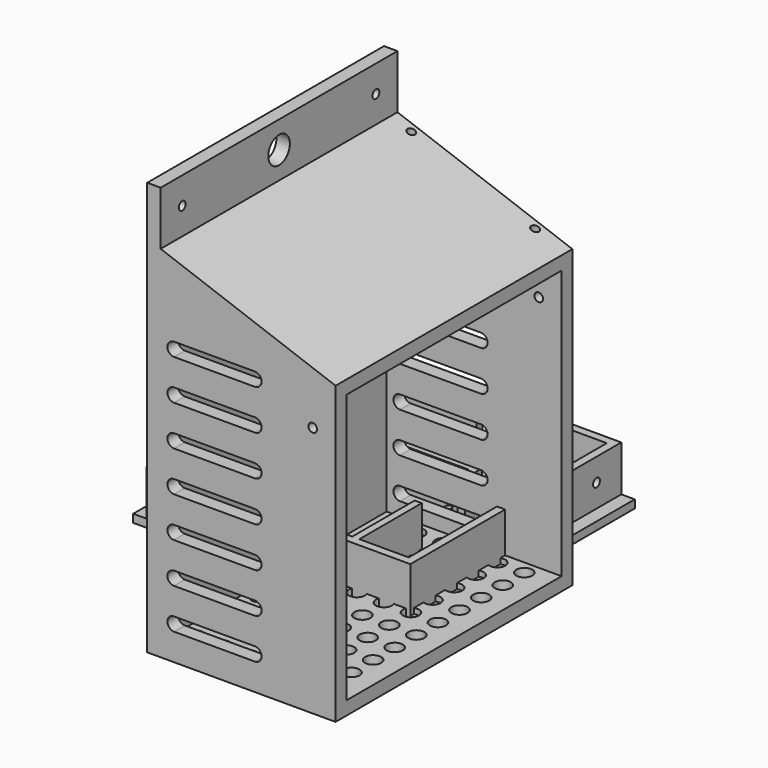
from build123d import *

# Parameters (mm, degrees)
SKETCH_W        = 98
SKETCH_H        = 98
PAD_DEPTH       = 20
SKETCH001_W     = 42
SKETCH001_H     = 67
POCKET_DEPTH    = 17
SKETCH002_W     = 26
SKETCH002_H     = 54
POCKET001_DEPTH = 17
POCKET002_DEPTH = 17
SKETCH004_W     = 4
SKETCH004_H     = 3
POCKET003_DEPTH = 17
SKETCH005_W     = 2.631232
SKETCH005_H     = 20
POCKET004_DEPTH = 17
SKETCH006_R     = 1.15
PAD001_DEPTH    = 5
SKETCH007_R     = 1.25
PAD002_DEPTH    = 5
SKETCH008_W     = 98
SKETCH008_H     = 3
PAD003_DEPTH    = 5
SKETCH009_W     = 98
SKETCH009_H     = 3
PAD004_DEPTH    = 5
SKETCH010_R     = 1.6
POCKET005_DEPTH = 3
SKETCH011_R     = 1.6
POCKET006_DEPTH = 3
SKETCH016_W     = 5
SKETCH016_H     = 8
POCKET010_DEPTH = 20.001
CHAMFER_SIZE    = 1
SKETCH021_R     = 2.5
POCKET014_DEPTH = 2
PAD005_DEPTH    = 110
SKETCH013_W     = 100
SKETCH013_H     = 100
POCKET007_DEPTH = 65
SKETCH014_R     = 5
SKETCH014_R_2   = 1.6
POCKET008_DEPTH = 5
SKETCH015_R     = 1.5
POCKET009_DEPTH = 10
SKETCH017_R     = 3
POCKET011_DEPTH = 5
SKETCH019_R     = 1.6
POCKET012_DEPTH = 110.001
POCKET013_DEPTH = 110.001


with BuildPart() as deckel:
    # Sketch → Pad (new body)
    with BuildSketch(Plane.XY):
        Rectangle(SKETCH_W, SKETCH_H)
    extrude(amount=PAD_DEPTH)

    # Sketch001 (on Face6 of Pad) → Pocket (cut)
    with BuildSketch(Plane.XY.offset(20)):
        with Locations((-25, -12.5)):
            Rectangle(SKETCH001_W, SKETCH001_H)
    extrude(amount=-POCKET_DEPTH, mode=Mode.SUBTRACT)

    # Sketch002 (on Face5 of Pocket) → Pocket001 (cut)
    with BuildSketch(Plane.XY.offset(20)):
        with Locations((12, -19)):
            Rectangle(SKETCH002_W, SKETCH002_H)
    extrude(amount=-POCKET001_DEPTH, mode=Mode.SUBTRACT)

    # Sketch003 (on Face5 of Pocket001) → Pocket002 (cut)
    with BuildSketch(Plane.XY.offset(20)):
        Polygon((-46, 46), (-46, 24), (-1, 24), (-1, 11), (27.631232, 11), (27.631232, -46), (46, -46), (46, 46), align=None)
    extrude(amount=-POCKET002_DEPTH, mode=Mode.SUBTRACT)

    # Sketch004 (on Face5 of Pocket002) → Pocket003 (cut)
    with BuildSketch(Plane.XY.offset(20)):
        with Locations((-6, 22.5)):
            Rectangle(SKETCH004_W, SKETCH004_H)
    extrude(amount=-POCKET003_DEPTH, mode=Mode.SUBTRACT)

    # Sketch005 (on Face5 of Pocket003) → Pocket004 (cut)
    with BuildSketch(Plane.XY.offset(20)):
        with Locations((26.315616, -7)):
            Rectangle(SKETCH005_W, SKETCH005_H)
    extrude(amount=-POCKET004_DEPTH, mode=Mode.SUBTRACT)

    # Sketch006 (on Face30 of Pocket004) → Pad001 (join)
    with BuildSketch(Plane.XY.offset(3)):
        with Locations((3.11, 3.86)):
            Circle(SKETCH006_R)
        with Locations((20.89, 3.86)):
            Circle(SKETCH006_R)
        with Locations((3.11, -41.86)):
            Circle(SKETCH006_R)
        with Locations((20.89, -41.86)):
            Circle(SKETCH006_R)
    extrude(amount=PAD001_DEPTH)

    # Sketch007 (on Face32 of Pad001) → Pad002 (join)
    with BuildSketch(Plane.XY.offset(3)):
        with Locations((15.631232, 36)):
            Circle(SKETCH007_R)
        with Locations((23.631232, 36)):
            Circle(SKETCH007_R)
    extrude(amount=PAD002_DEPTH)

    # Sketch008 (on Face2 of Pad002) → Pad003 (join)
    with BuildSketch(Plane(origin=(-49, 0, 0), x_dir=(0, -1, 0), z_dir=(-1, 0, 0))):
        with Locations((0, 1.5)):
            Rectangle(SKETCH008_W, SKETCH008_H)
    extrude(amount=PAD003_DEPTH)

    # Sketch009 (on Face4 of Pad003) → Pad004 (join)
    with BuildSketch(Plane.YZ.offset(49)):
        with Locations((0, 1.5)):
            Rectangle(SKETCH009_W, SKETCH009_H)
    extrude(amount=PAD004_DEPTH)

    # Sketch010 (on Face29 of Pad004) → Pocket005 (cut)
    with BuildSketch(Plane.YZ.offset(-46)):
        with Locations((37.5, 11.5)):
            Circle(SKETCH010_R)
    extrude(amount=-POCKET005_DEPTH, mode=Mode.SUBTRACT)

    # Sketch011 (on Face32 of Pocket005) → Pocket006 (cut)
    with BuildSketch(Plane(origin=(46, 0, 0), x_dir=(0, -1, 0), z_dir=(-1, 0, 0))):
        with Locations((-37.5, 11.5)):
            Circle(SKETCH011_R)
    extrude(amount=-POCKET006_DEPTH, mode=Mode.SUBTRACT)

    # Sketch016 (on Face7 of Pocket006) → Pocket010 (cut, through all)
    with BuildSketch(Plane.XY.offset(20)):
        with Locations((0, 45)):
            Rectangle(SKETCH016_W, SKETCH016_H)
    extrude(amount=-POCKET010_DEPTH, mode=Mode.SUBTRACT)

    # Chamfer
    chamfer_edges = [deckel.edges().sort_by_distance(p)[0] for p in [
        (14.381232, 36, 3),
        (22.381232, 36, 3),
        (1.96, 3.86, 3),
        (19.74, 3.86, 3),
        (1.96, -41.86, 3),
        (19.74, -41.86, 3),
    ]]
    chamfer(chamfer_edges, length=CHAMFER_SIZE)

    # Sketch021 (on Face1 of Chamfer) → Pocket014 (cut)
    with BuildSketch(Plane.XY.offset(3)):
        with Locations((19.631232, 31)):
            Circle(SKETCH021_R)
    extrude(amount=-POCKET014_DEPTH, mode=Mode.SUBTRACT)


with BuildPart() as obj1:
    # Sketch012 → Pad005 (new body)
    with BuildSketch(Plane.XZ):
        Polygon((0, 0), (0, 153.6580652273), (5, 153.6580652273), (5, 133.6580652273), (70, 110), (70, 0), align=None)
    extrude(amount=PAD005_DEPTH)

    # Sketch013 (on Face5 of Pad005) → Pocket007 (cut)
    with BuildSketch(Plane(origin=(70, 0, 0), x_dir=(0, 0, 1), z_dir=(1, 0, 0))):
        with Locations((55, 55)):
            Rectangle(SKETCH013_W, SKETCH013_H)
    extrude(amount=-POCKET007_DEPTH, mode=Mode.SUBTRACT)

    # Sketch014 (on Face7 of Pocket007) → Pocket008 (cut)
    with BuildSketch(Plane(origin=(5, 0, 0), x_dir=(0, 0, 1), z_dir=(1, 0, 0))):
        with Locations((143.6580652273, 55)):
            Circle(SKETCH014_R)
        with Locations((143.6580652273, 100)):
            Circle(SKETCH014_R_2)
        with Locations((143.6580652273, 10)):
            Circle(SKETCH014_R_2)
    extrude(amount=-POCKET008_DEPTH, mode=Mode.SUBTRACT)

    # Sketch015 (on Face11 of Pocket008) → Pocket009 (cut)
    with BuildSketch(Plane(origin=(43.5417630236, 0, 119.6300107106), x_dir=(-0.9396926208, 0, 0.3420201433), z_dir=(0.3420201433, 0, 0.9396926208))):
        with Locations((-15.9847124783, 3)):
            Circle(SKETCH015_R)
        with Locations((33.0152875217, 3)):
            Circle(SKETCH015_R)
    extrude(amount=-POCKET009_DEPTH, mode=Mode.SUBTRACT)

    # Sketch017 (on Face2 of Pocket009) → Pocket011 (cut)
    with BuildSketch(Plane(origin=(0, 0, 0), x_dir=(1, 0, 0), z_dir=(0, 0, -1))):
        with Locations((9.976582, 100.330579)):
            Circle(SKETCH017_R)
        with Locations((20.013313, 100.333181)):
            Circle(SKETCH017_R)
        with Locations((30.050044, 100.335783)):
            Circle(SKETCH017_R)
        with Locations((40.086775, 100.338385)):
            Circle(SKETCH017_R)
        with Locations((50.123506, 100.340987)):
            Circle(SKETCH017_R)
        with Locations((60.160237, 100.343589)):
            Circle(SKETCH017_R)
        with Locations((9.979184, 90.293848)):
            Circle(SKETCH017_R)
        with Locations((20.015915, 90.29645)):
            Circle(SKETCH017_R)
        with Locations((30.052646, 90.299052)):
            Circle(SKETCH017_R)
        with Locations((40.089377, 90.301654)):
            Circle(SKETCH017_R)
        with Locations((50.126108, 90.304256)):
            Circle(SKETCH017_R)
        with Locations((60.162839, 90.306858)):
            Circle(SKETCH017_R)
        with Locations((9.981786, 80.257117)):
            Circle(SKETCH017_R)
        with Locations((20.018517, 80.259719)):
            Circle(SKETCH017_R)
        with Locations((30.055248, 80.262321)):
            Circle(SKETCH017_R)
        with Locations((40.091979, 80.264923)):
            Circle(SKETCH017_R)
        with Locations((50.12871, 80.267525)):
            Circle(SKETCH017_R)
        with Locations((60.165441, 80.270127)):
            Circle(SKETCH017_R)
        with Locations((9.984388, 70.220386)):
            Circle(SKETCH017_R)
        with Locations((20.021119, 70.222988)):
            Circle(SKETCH017_R)
        with Locations((30.05785, 70.22559)):
            Circle(SKETCH017_R)
        with Locations((40.094581, 70.228192)):
            Circle(SKETCH017_R)
        with Locations((50.131312, 70.230794)):
            Circle(SKETCH017_R)
        with Locations((60.168043, 70.233396)):
            Circle(SKETCH017_R)
        with Locations((9.98699, 60.183655)):
            Circle(SKETCH017_R)
        with Locations((20.023721, 60.186257)):
            Circle(SKETCH017_R)
        with Locations((30.060452, 60.188859)):
            Circle(SKETCH017_R)
        with Locations((40.097183, 60.191461)):
            Circle(SKETCH017_R)
        with Locations((50.133914, 60.194063)):
            Circle(SKETCH017_R)
        with Locations((60.170645, 60.196665)):
            Circle(SKETCH017_R)
        with Locations((9.989592, 50.146924)):
            Circle(SKETCH017_R)
        with Locations((20.026323, 50.149526)):
            Circle(SKETCH017_R)
        with Locations((30.063054, 50.152128)):
            Circle(SKETCH017_R)
        with Locations((40.099785, 50.15473)):
            Circle(SKETCH017_R)
        with Locations((50.136516, 50.157332)):
            Circle(SKETCH017_R)
        with Locations((60.173247, 50.159934)):
            Circle(SKETCH017_R)
        with Locations((9.992194, 40.110193)):
            Circle(SKETCH017_R)
        with Locations((20.028925, 40.112795)):
            Circle(SKETCH017_R)
        with Locations((30.065656, 40.115397)):
            Circle(SKETCH017_R)
        with Locations((40.102387, 40.117999)):
            Circle(SKETCH017_R)
        with Locations((50.139118, 40.120601)):
            Circle(SKETCH017_R)
        with Locations((60.175849, 40.123203)):
            Circle(SKETCH017_R)
        with Locations((9.994796, 30.073462)):
            Circle(SKETCH017_R)
        with Locations((20.031527, 30.076064)):
            Circle(SKETCH017_R)
        with Locations((30.068258, 30.078666)):
            Circle(SKETCH017_R)
        with Locations((40.104989, 30.081268)):
            Circle(SKETCH017_R)
        with Locations((50.14172, 30.08387)):
            Circle(SKETCH017_R)
        with Locations((60.178451, 30.086472)):
            Circle(SKETCH017_R)
        with Locations((9.997398, 20.036731)):
            Circle(SKETCH017_R)
        with Locations((20.034129, 20.039333)):
            Circle(SKETCH017_R)
        with Locations((30.07086, 20.041935)):
            Circle(SKETCH017_R)
        with Locations((40.107591, 20.044537)):
            Circle(SKETCH017_R)
        with Locations((50.144322, 20.047139)):
            Circle(SKETCH017_R)
        with Locations((60.181053, 20.049741)):
            Circle(SKETCH017_R)
        with Locations((10, 10)):
            Circle(SKETCH017_R)
        with Locations((20.036731, 10.002602)):
            Circle(SKETCH017_R)
        with Locations((30.073462, 10.005204)):
            Circle(SKETCH017_R)
        with Locations((40.110193, 10.007806)):
            Circle(SKETCH017_R)
        with Locations((50.146924, 10.010408)):
            Circle(SKETCH017_R)
        with Locations((60.183655, 10.01301)):
            Circle(SKETCH017_R)
    extrude(amount=-POCKET011_DEPTH, mode=Mode.SUBTRACT)

    # Sketch019 (on Face4 of Pocket011) → Pocket012 (cut, through all)
    with BuildSketch(Plane.XZ.offset(110)):
        with Locations((61.5, 93.5)):
            Circle(SKETCH019_R)
    extrude(amount=-POCKET012_DEPTH, mode=Mode.SUBTRACT)

    # Sketch020 (on Face4 of Pocket012) → Pocket013 (cut, through all)
    with BuildSketch(Plane.XZ.offset(110)):
        with BuildLine():
            ThreePointArc((10, 15), (7.5, 12.5), (10, 10))
            Line((10, 10), (40, 10))
            ThreePointArc((40, 10), (42.5, 12.5), (40, 15))
            Line((10, 15), (40, 15))
        make_face()
        with BuildLine():
            ThreePointArc((10, 29.9843728085), (7.5, 27.4843728085), (10, 24.9843728085))
            Line((10, 24.9843728085), (40, 24.9843728085))
            ThreePointArc((40, 24.9843728085), (42.5, 27.4843728085), (40, 29.9843728085))
            Line((10, 29.9843728085), (40, 29.9843728085))
        make_face()
        with BuildLine():
            ThreePointArc((10, 44.968745617), (7.5, 42.468745617), (10, 39.968745617))
            Line((10, 39.968745617), (40, 39.968745617))
            ThreePointArc((40, 39.968745617), (42.5, 42.468745617), (40, 44.968745617))
            Line((10, 44.968745617), (40, 44.968745617))
        make_face()
        with BuildLine():
            ThreePointArc((10, 59.9531184255), (7.5, 57.4531184255), (10, 54.9531184255))
            Line((10, 54.9531184255), (40, 54.9531184255))
            ThreePointArc((40, 54.9531184255), (42.5, 57.4531184255), (40, 59.9531184255))
            Line((10, 59.9531184255), (40, 59.9531184255))
        make_face()
        with BuildLine():
            ThreePointArc((10, 74.937491234), (7.5, 72.437491234), (10, 69.937491234))
            Line((10, 69.937491234), (40, 69.937491234))
            ThreePointArc((40, 69.937491234), (42.5, 72.437491234), (40, 74.937491234))
            Line((10, 74.937491234), (40, 74.937491234))
        make_face()
        with BuildLine():
            ThreePointArc((10, 89.9218640425), (7.5, 87.4218640425), (10, 84.9218640425))
            Line((10, 84.9218640425), (40, 84.9218640425))
            ThreePointArc((40, 84.9218640425), (42.5, 87.4218640425), (40, 89.9218640425))
            Line((10, 89.9218640425), (40, 89.9218640425))
        make_face()
        with BuildLine():
            ThreePointArc((10, 104.906236851), (7.5, 102.406236851), (10, 99.906236851))
            Line((10, 99.906236851), (40, 99.906236851))
            ThreePointArc((40, 99.906236851), (42.5, 102.406236851), (40, 104.906236851))
            Line((10, 104.906236851), (40, 104.906236851))
        make_face()
    extrude(amount=-POCKET013_DEPTH, mode=Mode.SUBTRACT)


solid = Compound([deckel.part, obj1.part])
